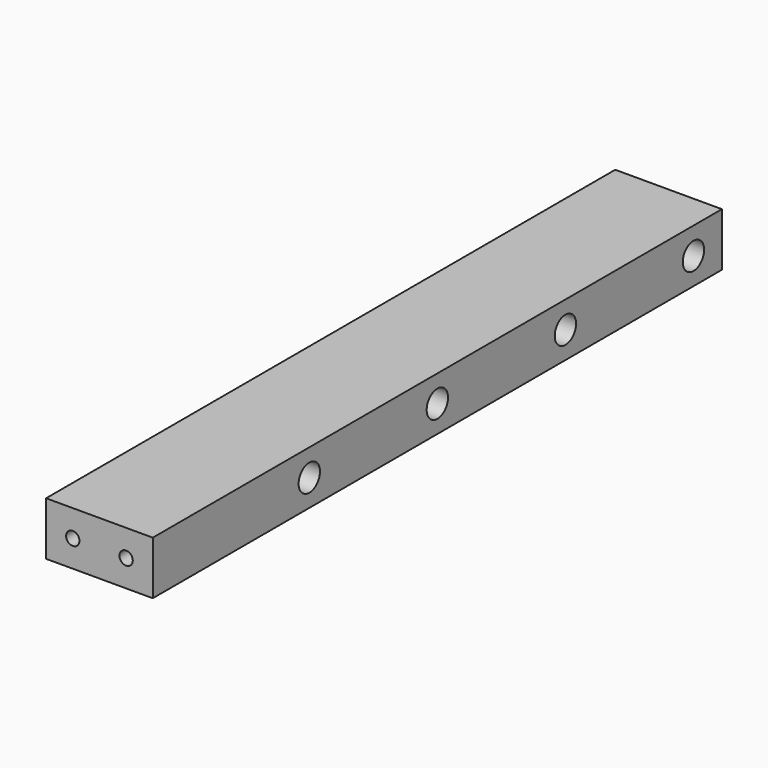
from build123d import *

# Parameters (mm, degrees)
F1_DEPTH = 19.05
F2_R     = 4.7625
F3_DEPTH = 38.101
F4_R     = 2.38125
F5_DEPTH = 57.15
F6_DEPTH = 12.7


with BuildPart() as f1:
    # F0 (on Top) → F1 (new body)
    with BuildSketch(Plane.XY):
        Polygon((19.05, -127), (19.05, 127), (12.7, 127), (-19.05, 63.5), (-19.05, -127), align=None)
        Polygon((-19.05, 63.5), (12.7, 127), (-19.05, 127), align=None)
    extrude(amount=F1_DEPTH)

    # F2 (on face) → F3 (cut, through all)
    with BuildSketch(Plane.YZ.offset(19.05)):
        with Locations((114.3, 9.525)):
            Circle(F2_R)
    extrude(amount=-F3_DEPTH, mode=Mode.SUBTRACT)

    # F4 (on face) → F5 (cut)
    with BuildSketch(Plane.XZ.offset(127)):
        with Locations((-9.525, 9.525)):
            Circle(F4_R)
        with Locations((9.525, 9.525)):
            Circle(F4_R)
    extrude(amount=-F5_DEPTH, mode=Mode.SUBTRACT)

    # F2 (on face) → F6 (cut)
    with BuildSketch(Plane.YZ.offset(19.05)):
        with Locations((-57.15, 9.525)):
            Circle(F2_R)
        with Locations((0, 9.525)):
            Circle(F2_R)
        with Locations((57.15, 9.525)):
            Circle(F2_R)
    extrude(amount=-F6_DEPTH, mode=Mode.SUBTRACT)


solid = f1.part
